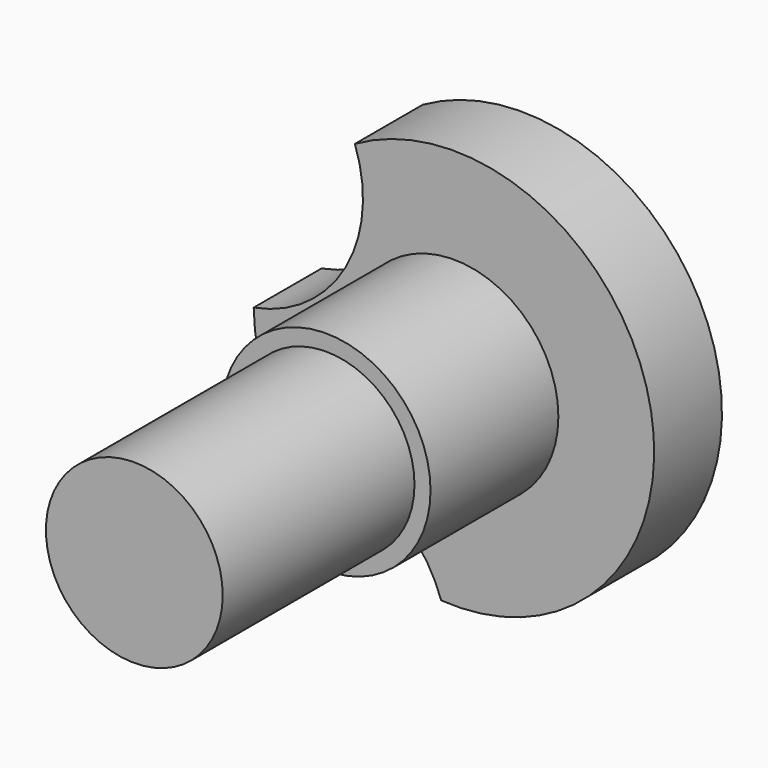
from build123d import *

# Parameters (mm, degrees)
F0_R     = 9.272864
F1_DEPTH = 50.8
F0_R_2   = 1.698052
F0_R_3   = 10.956447
F2_DEPTH = 8.89
F3_DEPTH = 25.654


with BuildPart() as f1:
    # F0 (on Front) → F1 (new body)
    with BuildSketch(Plane.XZ):
        Circle(F0_R)
    extrude(amount=F1_DEPTH)


with BuildPart() as f2:
    # F0 (on Front) → F2 (new body)
    with BuildSketch(Plane.XZ):
        with BuildLine():
            ThreePointArc((-17.382682, -11.793472), (-7.630108, -13.352688), (-1.335478, -20.963304))
            ThreePointArc((-1.335478, -20.963304), (20.467017, 4.727035), (-10.393163, 18.254473))
            ThreePointArc((-10.393163, 18.254473), (-11.387141, 6.507182), (-21.00347, -0.312866))
            ThreePointArc((-21.00347, -0.312866), (-20.033104, -6.3181), (-17.382682, -11.793472))
        make_face()
        with Locations((-16.60759, -5.250861)):
            Circle(F0_R_2, mode=Mode.SUBTRACT)
        Circle(F0_R_3, mode=Mode.SUBTRACT)
    extrude(amount=F2_DEPTH)


with BuildPart() as f3:
    # F0 (on Front) → F3 (new body)
    with BuildSketch(Plane.XZ):
        Circle(F0_R_3)
        Circle(F0_R, mode=Mode.SUBTRACT)
    extrude(amount=F3_DEPTH)


solid = Compound([f1.part, f2.part, f3.part])
